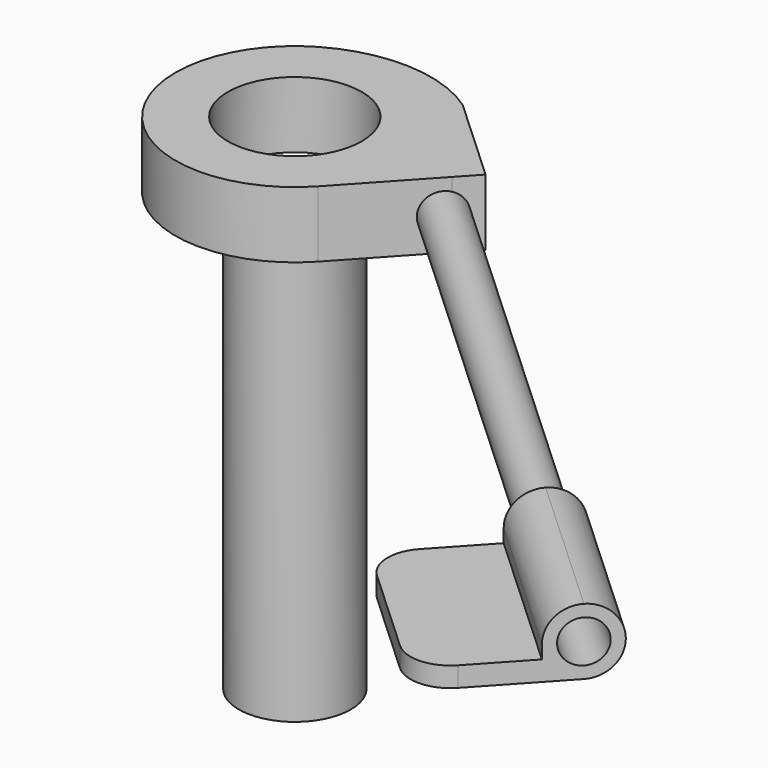
from build123d import *

# Parameters (mm, degrees)
F0_R     = 4.225
F1_DEPTH = 33
F0_R_2   = 5
F2_DEPTH = 5
F3_R     = 5.05
F4_DEPTH = 5
F5_R     = 1.6
F6_DEPTH = 21.863244
F7_DEPTH = 40
F8_W     = 3
F8_H     = 1.5
F8_R     = 1.6
F9_DEPTH = 15
F10_R    = 3


with BuildPart() as f1:
    # F0 (on Top) → F1 (new body)
    with BuildSketch(Plane.XY):
        with Locations((31.106739, -55.053444)):
            Circle(F0_R)
    extrude(amount=F1_DEPTH)

    # F0 (on Top) → F2 (cut)
    with BuildSketch(Plane.XY):
        with Locations((31.106739, -55.053444)):
            Circle(F0_R_2)
        with Locations((31.106739, -55.053444)):
            Circle(F0_R, mode=Mode.SUBTRACT)
    extrude(amount=F2_DEPTH, mode=Mode.SUBTRACT)


with BuildPart() as f4:
    # F3 (on face) → F4 (new body)
    with BuildSketch(Plane.XY.offset(33)):
        with BuildLine():
            ThreePointArc((26.592029, -47.267726), (23.057133, -51.028044), (22.169214, -56.112046))
            ThreePointArc((22.169214, -56.112046), (28.329525, -63.614231), (37.720738, -61.157133))
            Line((37.720738, -61.157133), (43.146239, -55.278023))
            Line((43.146239, -55.278023), (44.502614, -53.808245))
            Line((44.502614, -53.808245), (37.888616, -47.704556))
            ThreePointArc((37.888616, -47.704556), (32.303661, -45.848184), (26.592029, -47.267726))
        make_face()
        with Locations((31.106739, -55.053444)):
            Circle(F3_R, mode=Mode.SUBTRACT)
    extrude(amount=F4_DEPTH)

    # F5 (on face) → F6 (cut, through all)
    with BuildSketch(Plane(origin=(50.851774, -46.928253, 0), x_dir=(0.678188, 0.734889, 0), z_dir=(0.734889, -0.678188, 0))):
        with Locations((-11.86195, 35.5)):
            Circle(F5_R)
    extrude(amount=-F6_DEPTH, mode=Mode.SUBTRACT)


with BuildPart() as f7:
    # F5 (on face) → F7 (new body)
    with BuildSketch(Plane(origin=(50.851774, -46.928253, 0), x_dir=(0.678188, 0.734889, 0), z_dir=(0.734889, -0.678188, 0))):
        with Locations((-11.86195, 35.5)):
            Circle(F5_R)
    extrude(amount=F7_DEPTH)


with BuildPart() as f9:
    # F8 (on face) → F9 (new body)
    with BuildSketch(Plane(origin=(80.247324, -74.05576, 0), x_dir=(0.678188, 0.734889, 0), z_dir=(0.734889, -0.678188, 0))):
        with Locations((-20.86195, 33.75)):
            Rectangle(F8_W, F8_H)
        with BuildLine():
            Line((-19.36195, 34.5), (-19.36195, 33))
            Line((-19.36195, 33), (-11.86195, 33))
            ThreePointArc((-11.86195, 33), (-10.094183, 33.732233), (-9.36195, 35.5))
            ThreePointArc((-9.36195, 35.5), (-10.094183, 37.267767), (-11.86195, 38))
            ThreePointArc((-11.86195, 38), (-13.629717, 37.267767), (-14.36195, 35.5))
            Line((-14.36195, 35.5), (-14.36195, 34.5))
            Line((-14.36195, 34.5), (-19.36195, 34.5))
        make_face()
        with Locations((-11.86195, 35.5)):
            Circle(F8_R, mode=Mode.SUBTRACT)
    extrude(amount=F9_DEPTH)

    # F10
    f10_edges = [f9.edges().sort_by_distance(p)[0] for p in [
        (76.105057, -100.662121, 33.75),
        (65.081725, -90.489306, 33.75),
    ]]
    fillet(f10_edges, radius=F10_R)


solid = Compound([f1.part, f4.part, f7.part, f9.part])
